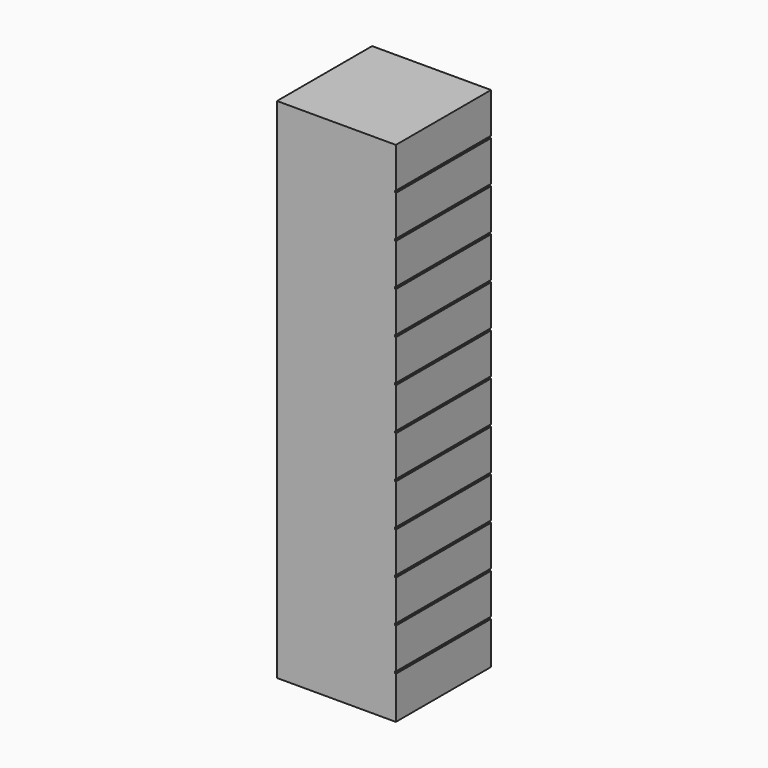
from build123d import *

# Parameters (mm, degrees)
F0_W     = 22.469434
F0_H     = 22.469434
F1_DEPTH = 96
F2_W     = 22.469434
F2_H     = 0.4
F3_DEPTH = 0.2


with BuildPart() as f1:
    # F0 (on Top) → F1 (new body)
    with BuildSketch(Plane.XY):
        Rectangle(F0_W, F0_H)
    extrude(amount=F1_DEPTH)

    # F2 (on face) → F3 (cut)
    with BuildSketch(Plane.YZ.offset(11.234717)):
        with Locations((0, 88.2)):
            Rectangle(F2_W, F2_H)
        with Locations((0, 80.2)):
            Rectangle(F2_W, F2_H)
        with Locations((0, 72.2)):
            Rectangle(F2_W, F2_H)
        with Locations((0, 64.2)):
            Rectangle(F2_W, F2_H)
        with Locations((0, 56.2)):
            Rectangle(F2_W, F2_H)
        with Locations((0, 48.2)):
            Rectangle(F2_W, F2_H)
        with Locations((0, 40.2)):
            Rectangle(F2_W, F2_H)
        with Locations((0, 32.2)):
            Rectangle(F2_W, F2_H)
        with Locations((0, 24.2)):
            Rectangle(F2_W, F2_H)
        with Locations((0, 16.2)):
            Rectangle(F2_W, F2_H)
        with Locations((0, 8.2)):
            Rectangle(F2_W, F2_H)
    extrude(amount=-F3_DEPTH, mode=Mode.SUBTRACT)


solid = f1.part
